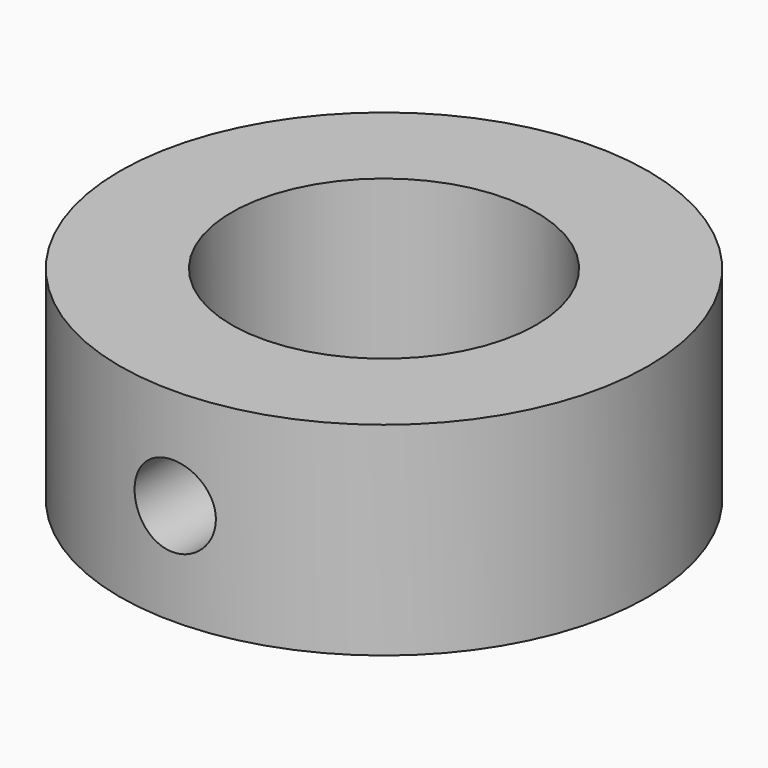
from build123d import *

# Parameters (mm, degrees)
SKETCH001_R     = 26
PAD_DEPTH       = 20
SKETCH002_R     = 15
POCKET_DEPTH    = 20.001
SKETCH_R        = 4
POCKET001_DEPTH = 26


with BuildPart() as part:
    # Sketch001 → Pad (new body)
    with BuildSketch(Plane.XY):
        Circle(SKETCH001_R)
    extrude(amount=PAD_DEPTH)

    # Sketch002 (on Face3 of Pad) → Pocket (cut, through all)
    with BuildSketch(Plane.XY.offset(20)):
        Circle(SKETCH002_R)
    extrude(amount=-POCKET_DEPTH, mode=Mode.SUBTRACT)

    # Sketch (on DatumPlane) → Pocket001 (cut)
    with BuildSketch(Plane.XZ.offset(26)):
        with Locations((0, 10)):
            Circle(SKETCH_R)
    extrude(amount=-POCKET001_DEPTH, mode=Mode.SUBTRACT)


solid = part.part
